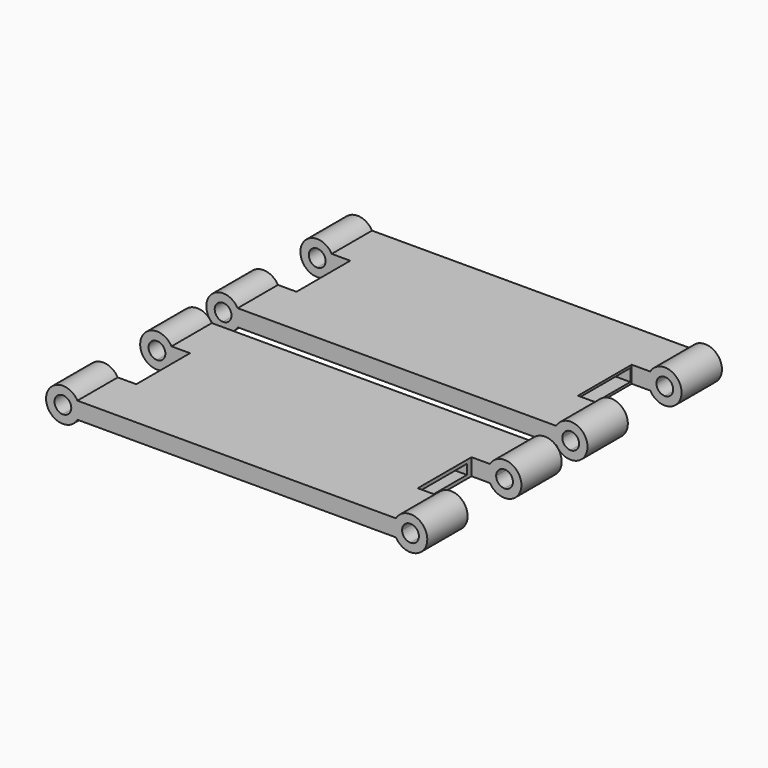
from build123d import *

# Parameters (mm, degrees)
F1_DEPTH       = 50
F2_W           = 28.940089047
F2_H           = 20
F3_DEPTH       = 25
F3_DEPTH_BACK  = 25
F4_W           = 72.1798986197
F4_H           = 54.933372885
F5_DEPTH       = 25
F5_DEPTH_BACK  = 25
F9_W           = 16.7902670801
F9_H           = 2.9200464487
F10_DEPTH      = 63
F10_DEPTH_BACK = 65.8
F11_W          = 18.6153054237
F11_H          = 3.6500580609
F12_DEPTH      = 56.8
F12_DEPTH_BACK = 55.3


with BuildPart() as f1:
    # F0 (on Front) → F1 (new body)
    with BuildSketch(Plane.XZ):
        with BuildLine():
            ThreePointArc((55.5247060955, -2.5), (53.0247060955, 0), (55.5247060955, 2.5))
            Line((55.5247060955, 2.5), (51.1945790765, 2.5))
            ThreePointArc((51.1945790765, 2.5), (50.5247060955, 0), (51.1945790765, -2.5))
            Line((51.1945790765, -2.5), (55.5247060955, -2.5))
        make_face()
        with BuildLine():
            Line((51.1945790765, 2.5), (55.5247060955, 2.5))
            ThreePointArc((55.5247060955, 2.5), (57.2924730484, 1.767766953), (58.0247060955, 0))
            ThreePointArc((58.0247060955, 0), (57.2924730484, -1.767766953), (55.5247060955, -2.5))
            Line((55.5247060955, -2.5), (51.1945790765, -2.5))
            ThreePointArc((51.1945790765, -2.5), (56.818801321, -4.8296291314), (60.5247060955, 0))
            ThreePointArc((60.5247060955, 0), (56.818801321, 4.8296291314), (51.1945790765, 2.5))
        make_face()
        with BuildLine():
            ThreePointArc((51.1945790765, -2.5), (50.5247060955, 0), (51.1945790765, 2.5))
            Line((51.1945790765, 2.5), (-47.3928899846, 2.5))
            ThreePointArc((-47.3928899846, 2.5), (-46.893387872, 1.2940952255), (-46.7230170035, 0))
            ThreePointArc((-46.7230170035, 0), (-46.893387872, -1.2940952255), (-47.3928899846, -2.5))
            Line((-47.3928899846, -2.5), (51.1945790765, -2.5))
        make_face()
        with BuildLine():
            ThreePointArc((-46.7230170035, 0), (-46.893387872, 1.2940952255), (-47.3928899846, 2.5))
            Line((-47.3928899846, 2.5), (-51.7230170035, 2.5))
            ThreePointArc((-51.7230170035, 2.5), (-49.9552500505, 1.767766953), (-49.2230170035, 0))
            ThreePointArc((-49.2230170035, 0), (-49.9552500505, -1.767766953), (-51.7230170035, -2.5))
            Line((-51.7230170035, -2.5), (-47.3928899846, -2.5))
            ThreePointArc((-47.3928899846, -2.5), (-46.893387872, -1.2940952255), (-46.7230170035, 0))
        make_face()
        with BuildLine():
            Line((-51.7230170035, 2.5), (-47.3928899846, 2.5))
            ThreePointArc((-47.3928899846, 2.5), (-56.7230170035, 0), (-47.3928899846, -2.5))
            Line((-47.3928899846, -2.5), (-51.7230170035, -2.5))
            ThreePointArc((-51.7230170035, -2.5), (-54.2230170035, 0), (-51.7230170035, 2.5))
        make_face()
    extrude(amount=F1_DEPTH)

    # F2 (on Top) → F3 (cut, two sides)
    with BuildSketch(Plane.XY) as f3_sk:
        with Locations((-56.3514307141, -25)):
            Rectangle(F2_W, F2_H)
    extrude(amount=-F3_DEPTH, mode=Mode.SUBTRACT)
    extrude(f3_sk.sketch, amount=F3_DEPTH_BACK, mode=Mode.SUBTRACT)

    # F4 (on Top) → F5 (cut, two sides)
    with BuildSketch(Plane.XY) as f5_sk:
        with Locations((36.0899493098, -27.4666864425)):
            Rectangle(F4_W, F4_H)
    extrude(amount=-F5_DEPTH, mode=Mode.SUBTRACT)
    extrude(f5_sk.sketch, amount=F5_DEPTH_BACK, mode=Mode.SUBTRACT)

    # F6: F1 across plane


with BuildPart() as f1_1:
    add(f1.part)
    add(f1.part.mirror(Plane.YZ))


with BuildPart() as f8_1:
    # F8: instance of F1
    add(f1_1.part.mirror(Plane.XZ.offset(-4.8)))

    # F11 (on Right) → F12 (cut, two sides)
    with BuildSketch(Plane.YZ) as f12_sk:
        with Locations((34.7668007016, 0)):
            Rectangle(F11_W, F11_H)
    extrude(amount=F12_DEPTH, mode=Mode.SUBTRACT)
    extrude(f12_sk.sketch, amount=-F12_DEPTH_BACK, mode=Mode.SUBTRACT)


with BuildPart() as f1_2:
    add(f1_1.part)

    # F9 (on Right) → F10 (cut, two sides)
    with BuildSketch(Plane.YZ) as f10_sk:
        with Locations((-25.0941496342, 0)):
            Rectangle(F9_W, F9_H)
    extrude(amount=F10_DEPTH, mode=Mode.SUBTRACT)
    extrude(f10_sk.sketch, amount=-F10_DEPTH_BACK, mode=Mode.SUBTRACT)


solid = Compound([f8_1.part, f1_2.part])
